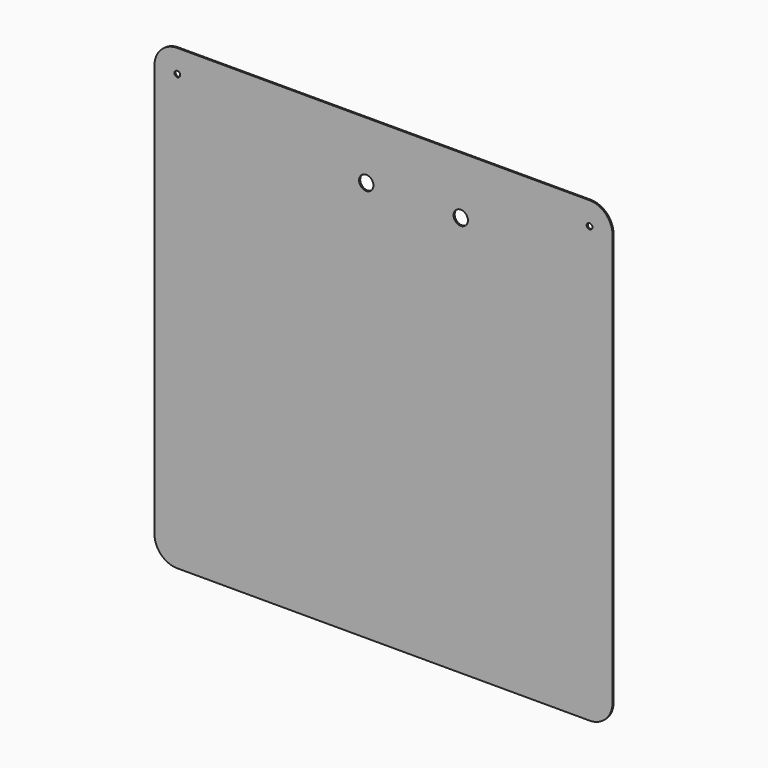
from build123d import *

# Parameters (mm, degrees)
F0_R     = 3.175
F0_R_2   = 7.9375
F1_DEPTH = 1.524


with BuildPart() as f1:
    # F0 (on Front) → F1 (new body)
    with BuildSketch(Plane.XZ):
        with BuildLine():
            ThreePointArc((254, 228.6), (246.560512, 246.560512), (228.6, 254))
            Line((228.6, 254), (-228.6, 254))
            ThreePointArc((-228.6, 254), (-246.560512, 246.560512), (-254, 228.6))
            Line((-254, 228.6), (-254, -228.6))
            ThreePointArc((-254, -228.6), (-246.560512, -246.560512), (-228.6, -254))
            Line((-228.6, -254), (228.6, -254))
            ThreePointArc((228.6, -254), (246.560512, -246.560512), (254, -228.6))
            Line((254, -228.6), (254, 228.6))
        make_face()
        with Locations((-228.6, 228.6)):
            Circle(F0_R, mode=Mode.SUBTRACT)
        with Locations((-19.05, 190.5)):
            Circle(F0_R_2, mode=Mode.SUBTRACT)
        with Locations((85.725, 190.5)):
            Circle(F0_R_2, mode=Mode.SUBTRACT)
        with Locations((228.6, 228.6)):
            Circle(F0_R, mode=Mode.SUBTRACT)
    extrude(amount=F1_DEPTH)


solid = f1.part
